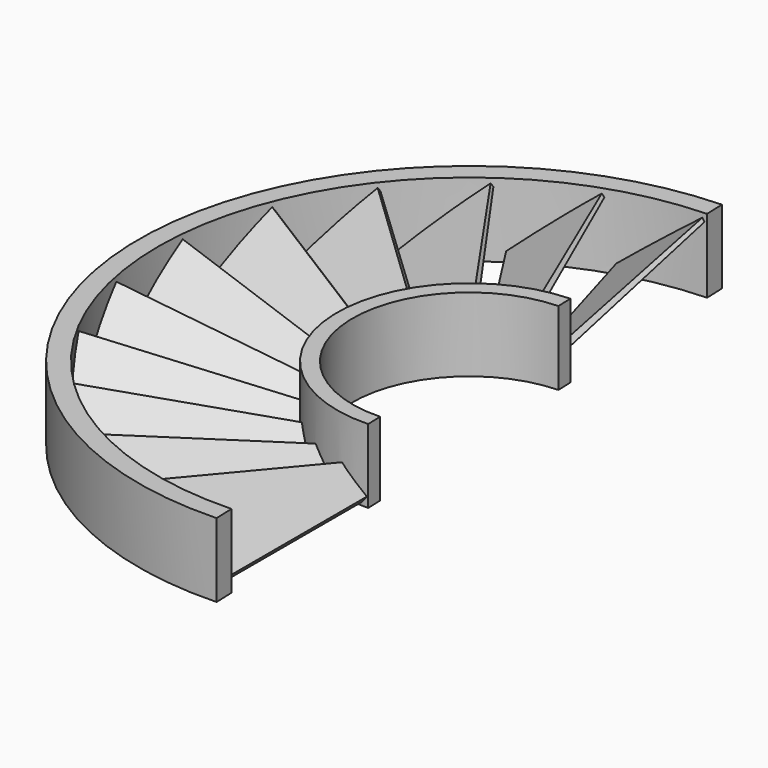
from build123d import *

# Parameters (mm, degrees)
BOX003_W                  = 500
BOX003_H                  = 500
BOX003_DEPTH              = 500
BOX003_PLACEMENT_ANGLE    = 2
TUBE037_R                 = 85
TUBE037_R_2               = 80
TUBE037_DEPTH             = 19
TUBE036_R                 = 100
TUBE036_R_2               = 80
TUBE036_DEPTH             = 200
PAD034_DEPTH              = 100
PAD035_DEPTH              = 2
COMMON016_PLACEMENT_ANGLE = 38
ARRAY015_COUNT            = 22
ARRAY015_PLACEMENT_ANGLE  = 180
TUBE038_R                 = 34
TUBE038_R_2               = 30
TUBE038_DEPTH             = 19


with BuildPart() as cube003:
    # Box003 → Box003 (new body)
    with BuildSketch(Plane.XY):
        with Locations((250, 250)):
            Rectangle(BOX003_W, BOX003_H)
    extrude(amount=BOX003_DEPTH)


with BuildPart() as cube003_1:
    # Box003 placement: moved
    add(cube003.part.moved(Location((8.73, -250, 0))).rotate(Axis((8.73, -250, 0), (0, 0, 1)), BOX003_PLACEMENT_ANGLE))


with BuildPart() as tube037:
    # Tube037 → Tube037 (new body)
    with BuildSketch(Plane.XY.offset(100.5)):
        Circle(TUBE037_R)
        Circle(TUBE037_R_2, mode=Mode.SUBTRACT)
    extrude(amount=TUBE037_DEPTH)


with BuildPart() as tube036:
    # Tube036 → Tube036 (new body)
    with BuildSketch(Plane.XY):
        Circle(TUBE036_R)
        Circle(TUBE036_R_2, mode=Mode.SUBTRACT)
    extrude(amount=TUBE036_DEPTH)


with BuildPart() as body035:
    # Sketch034 → Pad034 (new body)
    with BuildSketch(Plane.XZ):
        Polygon((0, 0), (0, 2), (26, 0.9), (26, 0), align=None)
    extrude(amount=PAD034_DEPTH)


with BuildPart() as body035_1:
    # Body035 placement: moved
    add(body035.part.moved(Location((-5, 0, 5))))


with BuildPart() as cut010:
    # Sketch035 → Pad035 (new body)
    with BuildSketch(Plane.XY):
        Polygon((0, 0), (0, -52), (25.94305, -47.924315), (8.5, 0), align=None)
    extrude(amount=PAD035_DEPTH)


with BuildPart() as cut010_1:
    # Body036 placement: moved
    add(cut010.part.moved(Location((-5, -33, 5))))

    # Common016: intersect Body035
    add(body035_1.part, mode=Mode.INTERSECT)


with BuildPart() as cut010_2:
    # Common016 placement: moved
    add(cut010_1.part.rotate(Axis((0, 0, 0), (0, 1, 0)), COMMON016_PLACEMENT_ANGLE))

    # Array015: Cut010 ×22 about axis
    array015_axis = Axis((0, 0, 0), (0, 0, 1))


with BuildPart() as cut010_3:
    add(cut010_2.part)
    for i in range(1, ARRAY015_COUNT):
        add(cut010_2.part.rotate(array015_axis, i * 360 / ARRAY015_COUNT))


with BuildPart() as cut010_4:
    # Array015 placement: moved
    add(cut010_3.part.moved(Location((0, 0, 110))).rotate(Axis((0, 0, 110), (0, 1, 0)), ARRAY015_PLACEMENT_ANGLE))

    # Cut010: cut Tube036
    add(tube036.part, mode=Mode.SUBTRACT)


with BuildPart() as stator1h2:
    # Tube038 → Tube038 (new body)
    with BuildSketch(Plane.XY.offset(100.5)):
        Circle(TUBE038_R)
        Circle(TUBE038_R_2, mode=Mode.SUBTRACT)
    extrude(amount=TUBE038_DEPTH)

    # Fusion017: union Tube037, Cut010
    add(tube037.part)
    add(cut010_4.part)

    # Cut011: cut Cube003
    add(cube003_1.part, mode=Mode.SUBTRACT)


solid = stator1h2.part
